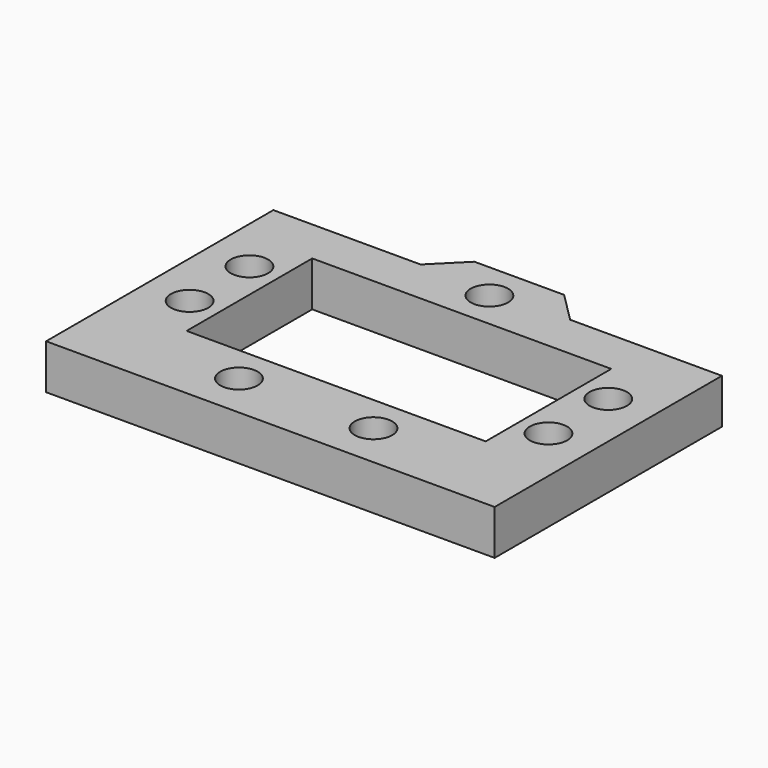
from build123d import *

# Parameters (mm, degrees)
F0_R      = 2.5
F0_W      = 40
F0_H      = 21
F1_DEPTH  = 6
F1_FACE_W = 60
F1_FACE_H = 6
F2_DEPTH  = 1


with BuildPart() as f1:
    # F0 (on Top) → F1 (new body)
    with BuildSketch(Plane.XY):
        Polygon((30, 16.5), (19.39145, 16.5), (9.695725, 16.5), (5.695725, 20.5), (-6.304275, 20.5), (-10.304275, 16.5), (-20, 16.5), (-30, 16.5), (-30, 10.5), (-30, -10.5), (-30, -22.5), (-20, -22.5), (20, -22.5), (30, -22.5), (30, -10.5), (30, 10.5), align=None)
        with Locations((-9, -15.5)):
            Circle(F0_R, mode=Mode.SUBTRACT)
        with Locations((-24, -5)):
            Circle(F0_R, mode=Mode.SUBTRACT)
        with Locations((9, -15.5)):
            Circle(F0_R, mode=Mode.SUBTRACT)
        with Locations((24, -5)):
            Circle(F0_R, mode=Mode.SUBTRACT)
        with Locations((-24, 5)):
            Circle(F0_R, mode=Mode.SUBTRACT)
        with Locations((-0.304275, 15.5)):
            Circle(F0_R, mode=Mode.SUBTRACT)
        Rectangle(F0_W, F0_H, mode=Mode.SUBTRACT)
        with Locations((24, 5)):
            Circle(F0_R, mode=Mode.SUBTRACT)
    extrude(amount=F1_DEPTH)

    # F1_face (on face) → F2 (cut)
    with BuildSketch(Plane(origin=(0, -22.5, 3), x_dir=(1, 0, 0), z_dir=(0, -1, 0))):
        Rectangle(F1_FACE_W, F1_FACE_H)
    extrude(amount=-F2_DEPTH, mode=Mode.SUBTRACT)


solid = f1.part
